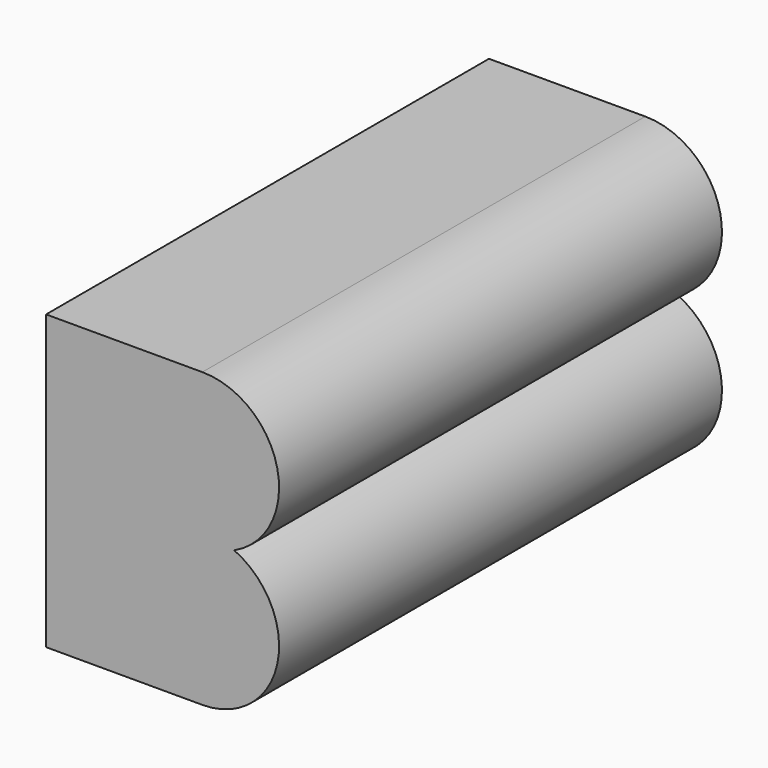
from build123d import *

# Parameters (mm, degrees)
F1_DEPTH = 24


with BuildPart() as f1:
    # F0 (on Front) → F1 (new body)
    with BuildSketch(Plane.XZ):
        with BuildLine():
            Line((1.725, 6.35), (-5.05, 6.35))
            Line((-5.05, 6.35), (-5.05, -6.35))
            Line((-5.05, -6.35), (1.725, -6.35))
            ThreePointArc((1.725, -6.35), (4.974135, -3.731222), (3.105217, 0))
            ThreePointArc((3.105217, 0), (4.974135, 3.731222), (1.725, 6.35))
        make_face()
    extrude(amount=F1_DEPTH)


solid = f1.part
